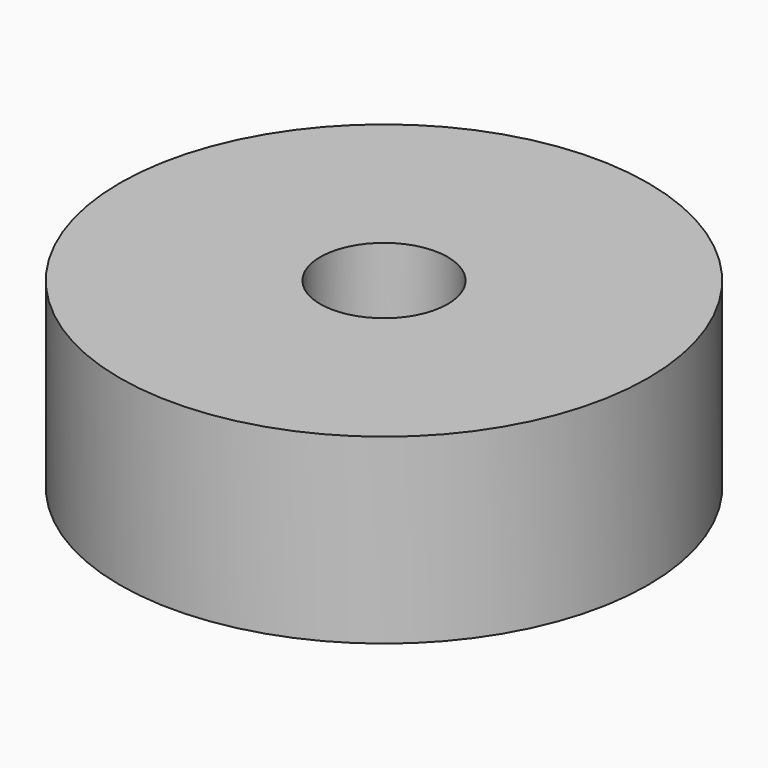
from build123d import *

# Parameters (mm, degrees)
SKETCH_R   = 14.5
SKETCH_R_2 = 3.5
PAD_DEPTH  = 10


with BuildPart() as part:
    # Sketch → Pad (new body)
    with BuildSketch(Plane.XY):
        Circle(SKETCH_R)
        Circle(SKETCH_R_2, mode=Mode.SUBTRACT)
    extrude(amount=PAD_DEPTH)


solid = part.part
